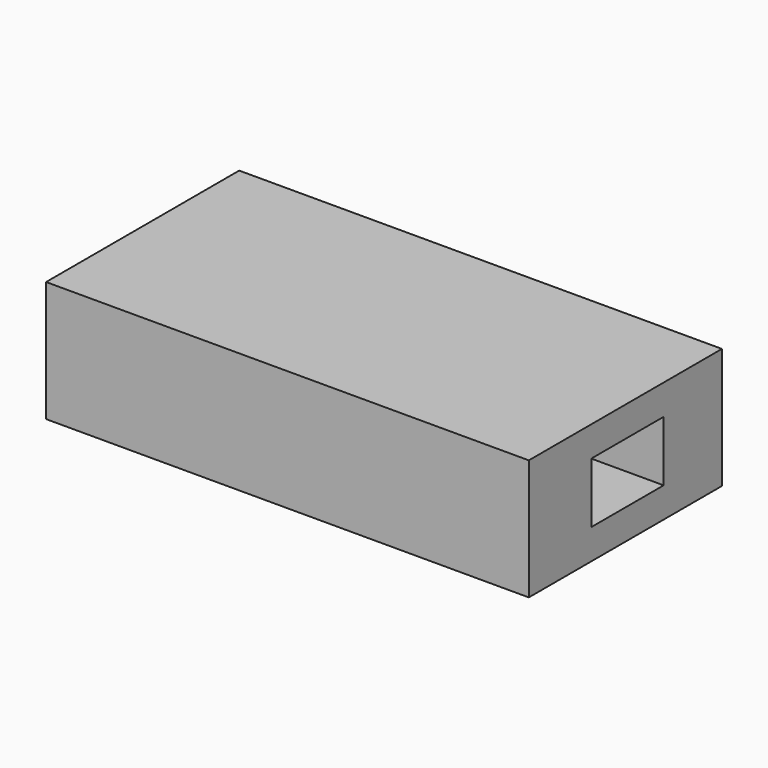
from build123d import *

# Parameters (mm, degrees)
F0_W     = 50.8
F0_H     = 25.4
F1_DEPTH = 50.8
F2_W     = 19.05
F2_H     = 12.7
F3_DEPTH = 121.595184


with BuildPart() as f1:
    # F0 (on Right) → F1 (new body, symmetric)
    with BuildSketch(Plane.YZ):
        with Locations((-0.54992, -13.264191)):
            Rectangle(F0_W, F0_H)
    extrude(amount=F1_DEPTH, both=True)

    # F2 (on Right) → F3 (cut, symmetric)
    with BuildSketch(Plane.YZ):
        with Locations((0, -13.264191)):
            Rectangle(F2_W, F2_H)
    extrude(amount=F3_DEPTH, both=True, mode=Mode.SUBTRACT)


solid = f1.part
